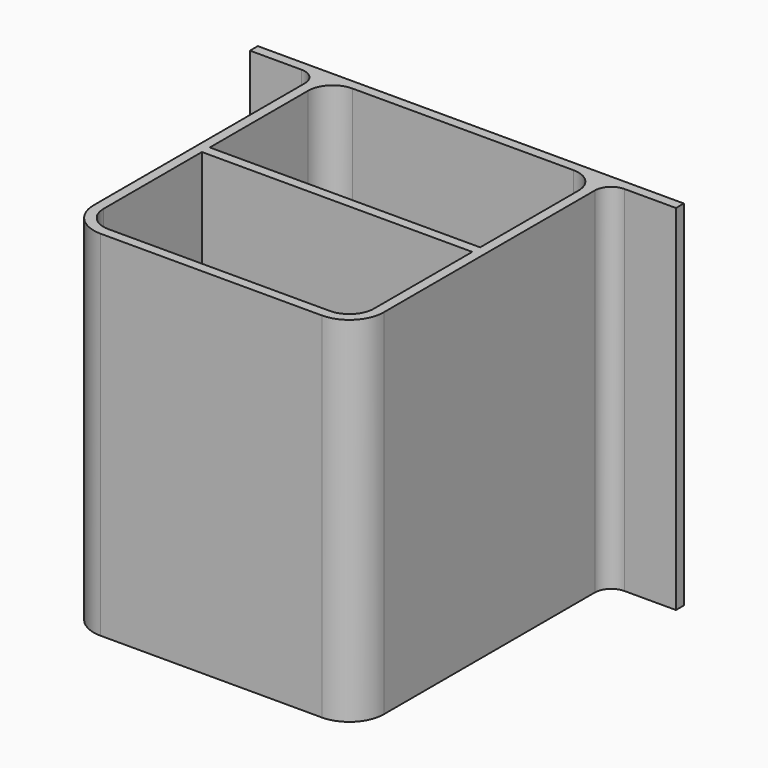
from build123d import *

# Parameters (mm, degrees)
F0_W          = 33
F0_H          = 1.2
F1_DEPTH      = 42
F1_DEPTH_BACK = 1.2
F0_R          = 4
F2_DEPTH      = 1.2
F3_R          = 2


with BuildPart() as f1:
    # F0 (on Top) → F1 (new body, two sides)
    with BuildSketch(Plane.XY) as f1_sk:
        with BuildLine():
            Line((-17.7, 15.6), (-17.7, -15.6))
            ThreePointArc((-17.7, -15.6), (-16.469848, -18.569848), (-13.5, -19.8))
            Line((-13.5, -19.8), (13.5, -19.8))
            ThreePointArc((13.5, -19.8), (16.469848, -18.569848), (17.7, -15.6))
            Line((17.7, -15.6), (17.7, 15.6))
            Line((17.7, 15.6), (17.7, 18.6))
            Line((17.7, 18.6), (26, 18.6))
            Line((26, 18.6), (26, 19.8))
            Line((26, 19.8), (-26, 19.8))
            Line((-26, 19.8), (-26, 18.6))
            Line((-26, 18.6), (-17.7, 18.6))
            Line((-17.7, 18.6), (-17.7, 15.6))
        make_face()
        with BuildLine():
            ThreePointArc((16.5, -15.6), (15.62132, -17.72132), (13.5, -18.6))
            Line((13.5, -18.6), (-13.5, -18.6))
            ThreePointArc((-13.5, -18.6), (-15.62132, -17.72132), (-16.5, -15.6))
            Line((-16.5, -15.6), (-16.5, -0.6))
            Line((-16.5, -0.6), (-16.5, 0.6))
            Line((-16.5, 0.6), (-16.5, 15.6))
            ThreePointArc((-16.5, 15.6), (-15.62132, 17.72132), (-13.5, 18.6))
            Line((-13.5, 18.6), (13.5, 18.6))
            ThreePointArc((13.5, 18.6), (15.62132, 17.72132), (16.5, 15.6))
            Line((16.5, 15.6), (16.5, 0.6))
            Line((16.5, 0.6), (16.5, -0.6))
            Line((16.5, -0.6), (16.5, -15.6))
        make_face(mode=Mode.SUBTRACT)
        Rectangle(F0_W, F0_H)
    extrude(amount=F1_DEPTH)
    extrude(f1_sk.sketch, amount=-F1_DEPTH_BACK)

    # F0 (on Top) → F2 (join)
    with BuildSketch(Plane.XY):
        with BuildLine():
            Line((-16.5, 0.6), (16.5, 0.6))
            Line((16.5, 0.6), (16.5, 15.6))
            ThreePointArc((16.5, 15.6), (15.62132, 17.72132), (13.5, 18.6))
            Line((13.5, 18.6), (-13.5, 18.6))
            ThreePointArc((-13.5, 18.6), (-15.62132, 17.72132), (-16.5, 15.6))
            Line((-16.5, 15.6), (-16.5, 0.6))
        make_face()
        with Locations((0, 9.6)):
            Circle(F0_R, mode=Mode.SUBTRACT)
        Rectangle(F0_W, F0_H)
        with BuildLine():
            Line((-13.5, -18.6), (13.5, -18.6))
            ThreePointArc((13.5, -18.6), (15.62132, -17.72132), (16.5, -15.6))
            Line((16.5, -15.6), (16.5, -0.6))
            Line((16.5, -0.6), (-16.5, -0.6))
            Line((-16.5, -0.6), (-16.5, -15.6))
            ThreePointArc((-16.5, -15.6), (-15.62132, -17.72132), (-13.5, -18.6))
        make_face()
        with Locations((0, -9.6)):
            Circle(F0_R, mode=Mode.SUBTRACT)
    extrude(amount=-F2_DEPTH)

    # F3
    f3_edges = [f1.edges().sort_by_distance(p)[0] for p in [
        (-17.7, 18.6, 20.4),
        (17.7, 18.6, 20.4),
    ]]
    fillet(f3_edges, radius=F3_R)


solid = f1.part
